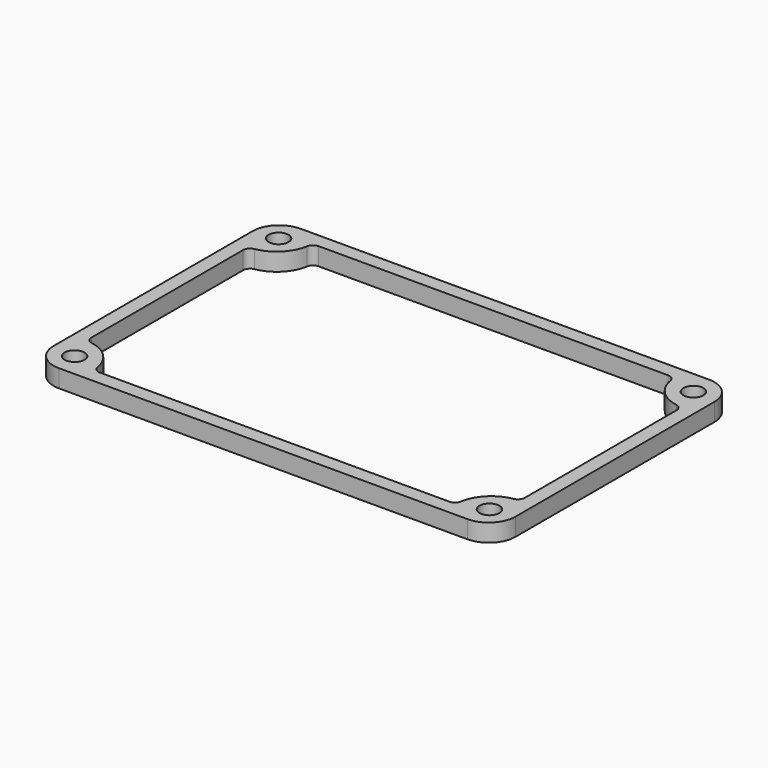
from build123d import *

# Parameters (mm, degrees)
SHAPEBINDER_R = 2.8
PAD_DEPTH     = 5


with BuildPart() as part:
    # ShapeBinder → Pad (new body)
    with BuildSketch(Plane(origin=(65, 42.5, 0), x_dir=(0, -1, 0), z_dir=(0, 0, -1))):
        with BuildLine():
            Line((35, 65), (-35, 65))
            ThreePointArc((-35, 65), (-40.303301, 62.803301), (-42.5, 57.5))
            Line((-42.5, 57.5), (-42.5, -57.5))
            ThreePointArc((-42.5, -57.5), (-40.303301, -62.803301), (-35, -65))
            Line((-35, -65), (0.97016, -65))
            Line((0.97016, -65), (16.010767, -65))
            Line((16.010767, -65), (35, -65))
            ThreePointArc((35, -65), (40.303301, -62.803301), (42.5, -57.5))
            Line((42.5, -57.5), (42.5, 57.5))
            ThreePointArc((42.5, 57.5), (40.303301, 62.803301), (35, 65))
        make_face()
        with Locations((35.866117, 58.366117)):
            Circle(SHAPEBINDER_R, mode=Mode.SUBTRACT)
        with Locations((35.866117, -58.366117)):
            Circle(SHAPEBINDER_R, mode=Mode.SUBTRACT)
        with Locations((-35.866117, 58.366117)):
            Circle(SHAPEBINDER_R, mode=Mode.SUBTRACT)
        with BuildLine():
            ThreePointArc((28.639867, 59.333333), (31.428932, 53.928932), (36.833333, 51.139867))
            ThreePointArc((36.833333, 51.139867), (38.027525, 50.458835), (38.5, 49.16784))
            Line((38.5, 49.16784), (38.5, -49.16784))
            ThreePointArc((38.5, -49.16784), (38.027525, -50.458835), (36.833333, -51.139867))
            ThreePointArc((36.833333, -51.139867), (31.428932, -53.928932), (28.639867, -59.333333))
            ThreePointArc((28.639867, -59.333333), (27.958835, -60.527525), (26.66784, -61))
            Line((26.66784, -61), (-26.66784, -61))
            ThreePointArc((-26.66784, -61), (-27.958835, -60.527525), (-28.639867, -59.333333))
            ThreePointArc((-28.639867, -59.333333), (-31.428932, -53.928932), (-36.833333, -51.139867))
            ThreePointArc((-36.833333, -51.139867), (-38.027525, -50.458835), (-38.5, -49.16784))
            Line((-38.5, -49.16784), (-38.5, 49.16784))
            ThreePointArc((-38.5, 49.16784), (-38.027525, 50.458835), (-36.833333, 51.139867))
            ThreePointArc((-36.833333, 51.139867), (-31.428932, 53.928932), (-28.639867, 59.333333))
            ThreePointArc((-28.639867, 59.333333), (-27.958835, 60.527525), (-26.66784, 61))
            Line((-26.66784, 61), (26.66784, 61))
            ThreePointArc((26.66784, 61), (27.958835, 60.527525), (28.639867, 59.333333))
        make_face(mode=Mode.SUBTRACT)
        with Locations((-35.866117, -58.366117)):
            Circle(SHAPEBINDER_R, mode=Mode.SUBTRACT)
    extrude(amount=PAD_DEPTH)


solid = part.part
